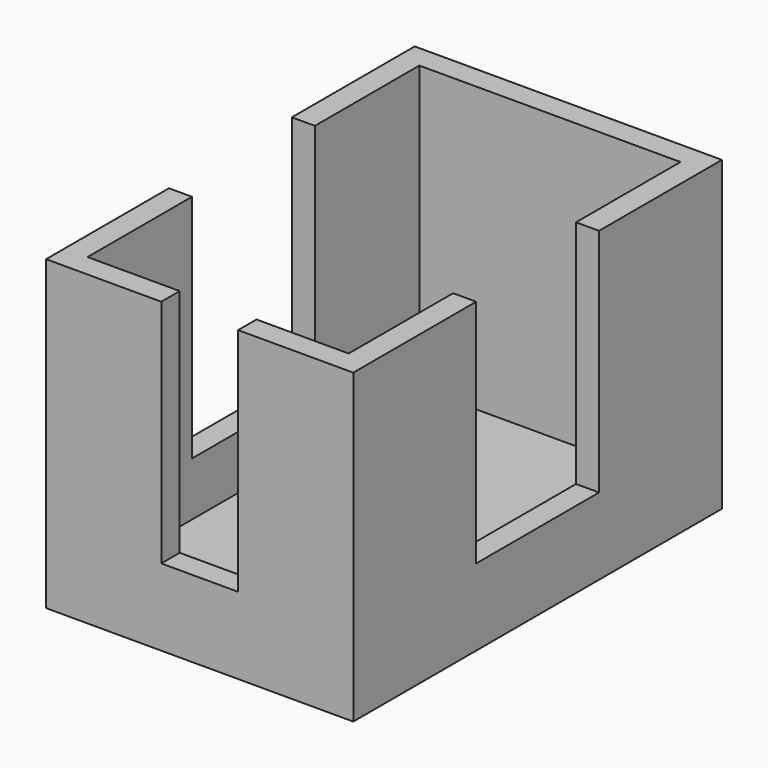
from build123d import *

# Parameters (mm, degrees)
F0_W     = 40
F0_H     = 40
F1_DEPTH = 60
F2_W     = 34
F2_H     = 54
F3_DEPTH = 37
F4_W     = 20
F4_H     = 30
F5_DEPTH = 40.001
F6_W     = 10
F6_H     = 30
F7_DEPTH = 3


with BuildPart() as f1:
    # F0 (on Front) → F1 (new body)
    with BuildSketch(Plane.XZ):
        Rectangle(F0_W, F0_H)
    extrude(amount=F1_DEPTH)

    # F2 (on face) → F3 (cut, through all)
    with BuildSketch(Plane.XY.offset(20)):
        with Locations((0, -30)):
            Rectangle(F2_W, F2_H)
    extrude(amount=-F3_DEPTH, mode=Mode.SUBTRACT)

    # F4 (on face) → F5 (cut, through all)
    with BuildSketch(Plane.YZ.offset(20)):
        with Locations((-30, 5)):
            Rectangle(F4_W, F4_H)
    extrude(amount=-F5_DEPTH, mode=Mode.SUBTRACT)

    # F6 (on face) → F7 (cut, through all)
    with BuildSketch(Plane.XZ.offset(60)):
        with Locations((0, 5)):
            Rectangle(F6_W, F6_H)
    extrude(amount=-F7_DEPTH, mode=Mode.SUBTRACT)


solid = f1.part
